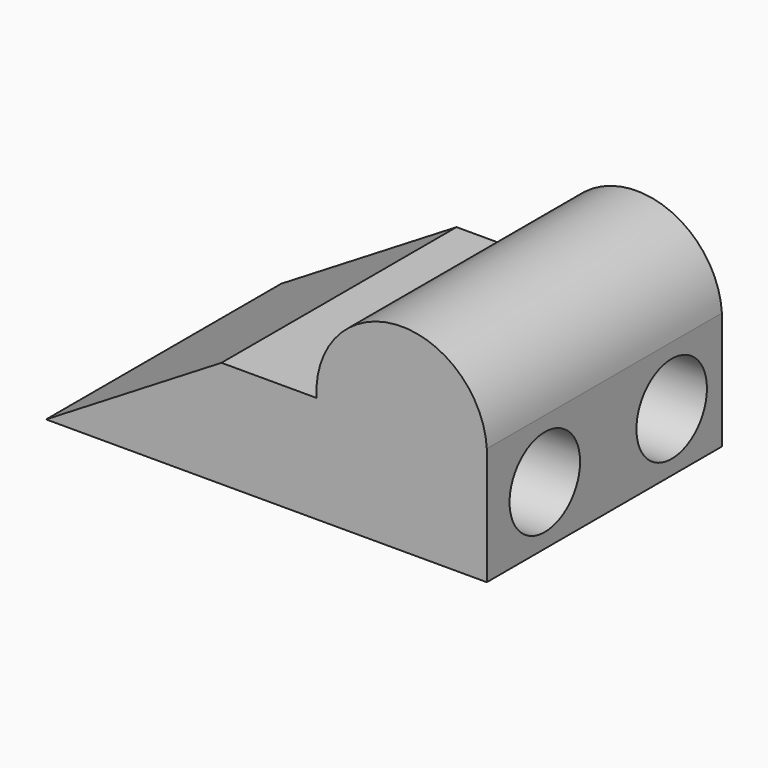
from build123d import *

# Parameters (mm, degrees)
F0_W     = 95.25
F0_H     = 63.5
F1_DEPTH = 50.8
F3_DEPTH = 63.501
F5_DEPTH = 25.4
F6_R     = 9.525
F7_DEPTH = 25.4


with BuildPart() as f1:
    # F0 (on Top) → F1 (new body)
    with BuildSketch(Plane.XY):
        with Locations((-29.448411174, -18.1773232762)):
            Rectangle(F0_W, F0_H)
    extrude(amount=F1_DEPTH)

    # F2 (on face) → F3 (cut, through all)
    with BuildSketch(Plane.XZ.offset(49.9273232762)):
        with BuildLine():
            Line((-77.073411174, 50.8), (-77.073411174, 0))
            Line((-77.073411174, 0), (-39.1752533615, 23.0941344053))
            Line((-39.1752533615, 23.0941344053), (-18.6140239239, 23.0941344053))
            ThreePointArc((-18.6140239239, 23.0941344053), (-1.3716503463, 42.6423735776), (18.176588826, 25.4))
            Line((18.176588826, 25.4), (18.176588826, 50.8))
            Line((18.176588826, 50.8), (-77.073411174, 50.8))
        make_face()
    extrude(amount=-F3_DEPTH, mode=Mode.SUBTRACT)

    # F4 (on face) → F5 (cut)
    with BuildSketch(Plane.YZ.offset(18.176588826)):
        with BuildLine():
            ThreePointArc((-24.7437144876, 12.7), (-34.2687144876, 22.225), (-43.7937144876, 12.7))
            Line((-43.7937144876, 12.7), (-24.7437144876, 12.7))
        make_face()
        with BuildLine():
            Line((-24.7437144876, 12.7), (-43.7937144876, 12.7))
            ThreePointArc((-43.7937144876, 12.7), (-34.2687144876, 3.175), (-24.7437144876, 12.7))
        make_face()
        with BuildLine():
            ThreePointArc((-43.7937144876, 12.7), (-34.2687144876, 3.175), (-24.7437144876, 12.7))
            Line((-24.7437144876, 12.7), (-43.7937144876, 12.7))
        make_face()
    extrude(amount=-F5_DEPTH, mode=Mode.SUBTRACT)

    # F6 (on face) → F7 (cut)
    with BuildSketch(Plane.YZ.offset(18.176588826)):
        with Locations((0, 12.7)):
            Circle(F6_R)
    extrude(amount=-F7_DEPTH, mode=Mode.SUBTRACT)


solid = f1.part
